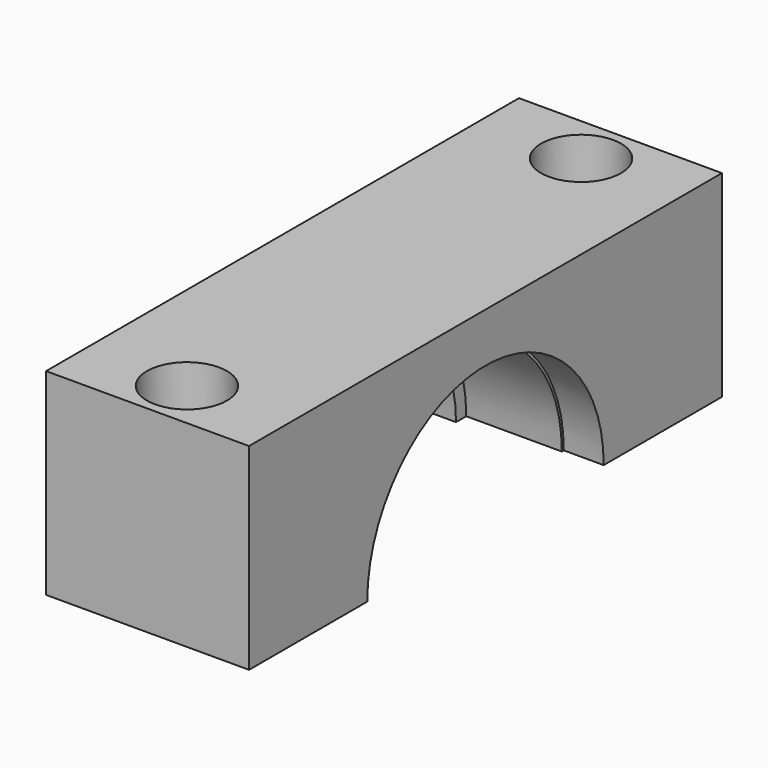
from build123d import *

# Parameters (mm, degrees)
F1_DEPTH        = 52.324
F2_R            = 38.1
F3_DEPTH        = 104.649
F4_R            = 68.326
F5_DEPTH        = 88.9
F6_R            = 6.35
F7_R            = 74.93
F8_DEPTH        = 69.85
F9_R            = 76.2
F10_DEPTH       = 20.574
F12_D           = 26.924
F12_CBORE_D     = 41.275
F12_CBORE_DEPTH = 26.924


with BuildPart() as f1:
    # F0 (on Right) → F1 (new body, symmetric)
    with BuildSketch(Plane.YZ):
        Polygon((-152.4, 0), (0, 0), (152.4, 0), (152.4, 101.6), (0, 101.6), (-152.4, 101.6), align=None)
    extrude(amount=F1_DEPTH, both=True)

    # F2 (on face) → F3 (cut, through all)
    with BuildSketch(Plane.YZ.offset(52.324)):
        Circle(F2_R)
    extrude(amount=-F3_DEPTH, mode=Mode.SUBTRACT)

    # F4 (on face) → F5 (cut)
    with BuildSketch(Plane.YZ.offset(52.324)):
        Circle(F4_R)
    extrude(amount=-F5_DEPTH, mode=Mode.SUBTRACT)

    # F6
    f6_edges = [f1.edges().sort_by_distance(p)[0] for p in [
        (-36.576, 0, 68.326),
    ]]
    fillet(f6_edges, radius=F6_R)

    # F7 (on face) → F8 (cut)
    with BuildSketch(Plane.YZ.offset(52.324)):
        Circle(F7_R)
    extrude(amount=-F8_DEPTH, mode=Mode.SUBTRACT)

    # F9 (on face) → F10 (cut)
    with BuildSketch(Plane.YZ.offset(52.324)):
        Circle(F9_R)
    extrude(amount=-F10_DEPTH, mode=Mode.SUBTRACT)

    # F12 (through all)
    with Locations(Plane.XY.offset(101.6)):
        with Locations((0, -127), (0, 127)):
            CounterBoreHole(F12_D / 2, F12_CBORE_D / 2, F12_CBORE_DEPTH)


solid = f1.part
